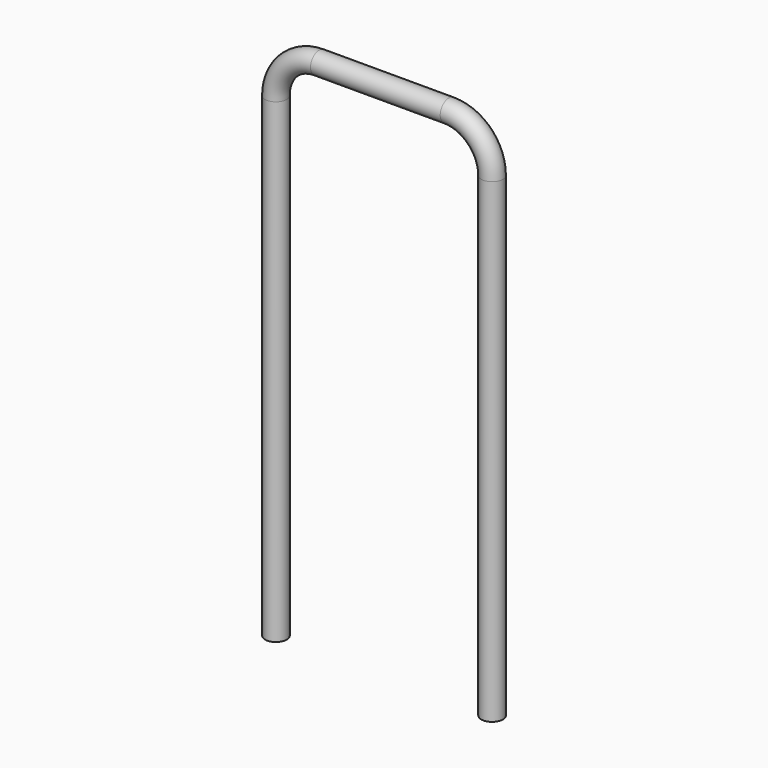
from build123d import *

# Parameters (mm, degrees)
F1_R = 0.5


with BuildPart() as f2:
    # F2: sweep along a path in F0
    with BuildLine(Plane.XZ) as f2_path:
        Line((5, 0), (5, 22))
        ThreePointArc((5, 22), (4.414214, 23.414214), (3, 24))
        Line((3, 24), (-3, 24))
        ThreePointArc((-3, 24), (-4.414214, 23.414214), (-5, 22))
        Line((-5, 22), (-5, 0))
    # F1 (on Top) → F2 (sweep)
    with BuildSketch(Plane.XY):
        with Locations((5, 0)):
            Circle(F1_R)
    sweep(path=f2_path.line)


solid = f2.part
